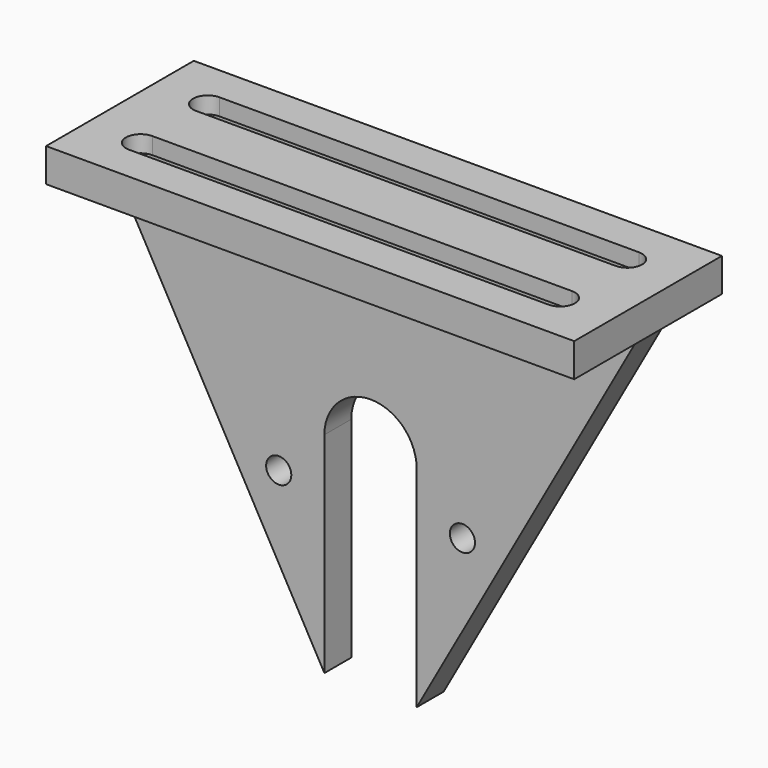
from build123d import *

# Parameters (mm, degrees)
F0_W     = 62.928204
F0_H     = 22
F1_DEPTH = 4
F2_DEPTH = 2
F3_R     = 1.5
F4_DEPTH = 2


with BuildPart() as f1:
    # F0 (on Top) → F1 (new body)
    with BuildSketch(Plane.XY):
        Rectangle(F0_W, F0_H)
        Polygon((-26.732051, -2), (26.732051, -2), (28.464102, -5), (26.732051, -8), (-26.732051, -8), (-28.464102, -5), align=None, mode=Mode.SUBTRACT)
        Polygon((-26.732051, 2), (-28.464102, 5), (-26.732051, 8), (26.732051, 8), (28.464102, 5), (26.732051, 2), align=None, mode=Mode.SUBTRACT)
    extrude(amount=-F1_DEPTH)

    # F0 (on Top) → F2 (join)
    with BuildSketch(Plane.XY):
        Polygon((28.464102, -5), (26.732051, -2), (-26.732051, -2), (-28.464102, -5), (-26.732051, -8), (26.732051, -8), align=None)
        with BuildLine():
            ThreePointArc((-25, -6.75), (-26.75, -5), (-25, -3.25))
            Line((-25, -3.25), (25, -3.25))
            ThreePointArc((25, -3.25), (26.75, -5), (25, -6.75))
            Line((25, -6.75), (-25, -6.75))
        make_face(mode=Mode.SUBTRACT)
        Polygon((-26.732051, 8), (-28.464102, 5), (-26.732051, 2), (26.732051, 2), (28.464102, 5), (26.732051, 8), align=None)
        with BuildLine():
            ThreePointArc((-25, 3.25), (-26.75, 5), (-25, 6.75))
            Line((-25, 6.75), (25, 6.75))
            ThreePointArc((25, 6.75), (26.75, 5), (25, 3.25))
            Line((25, 3.25), (-25, 3.25))
        make_face(mode=Mode.SUBTRACT)
    extrude(amount=-F2_DEPTH)

    # F3 (on Front) → F4 (join, symmetric)
    with BuildSketch(Plane.XZ):
        with BuildLine():
            Line((-5.5, -50.5), (-5.5, -25.5))
            ThreePointArc((-5.5, -25.5), (0, -20), (5.5, -25.5))
            Line((5.5, -25.5), (5.5, -50.5))
            Line((5.5, -50.5), (31.464102, -4))
            Line((31.464102, -4), (-31.464102, -4))
            Line((-31.464102, -4), (-5.5, -50.5))
        make_face()
        with Locations((-10.944086, -31)):
            Circle(F3_R, mode=Mode.SUBTRACT)
        with Locations((10.944086, -31)):
            Circle(F3_R, mode=Mode.SUBTRACT)
    extrude(amount=F4_DEPTH, both=True)


solid = f1.part
